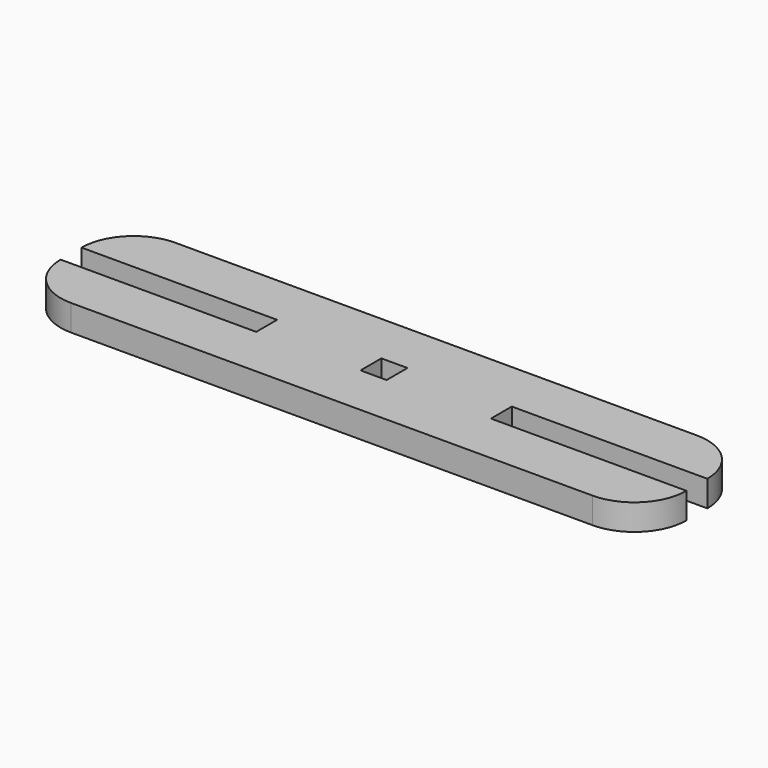
from build123d import *

# Parameters (mm, degrees)
F0_W     = 50.8
F0_H     = 50.8
F1_DEPTH = 50.8


with BuildPart() as f1:
    # F0 (on Top) → F1 (new body)
    with BuildSketch(Plane.XY):
        with BuildLine():
            ThreePointArc((609.6, 25.4), (579.842049, 97.242049), (508, 127))
            Line((508, 127), (-508, 127))
            ThreePointArc((-508, 127), (-579.842049, 97.242049), (-609.6, 25.4))
            Line((-609.6, 25.4), (-228.6, 25.4))
            Line((-228.6, 25.4), (-228.6, -25.4))
            Line((-228.6, -25.4), (-609.6, -25.4))
            ThreePointArc((-609.6, -25.4), (-579.842049, -97.242049), (-508, -127))
            Line((-508, -127), (508, -127))
            ThreePointArc((508, -127), (579.842049, -97.242049), (609.6, -25.4))
            Line((609.6, -25.4), (228.6, -25.4))
            Line((228.6, -25.4), (228.6, 25.4))
            Line((228.6, 25.4), (609.6, 25.4))
        make_face()
        Rectangle(F0_W, F0_H, mode=Mode.SUBTRACT)
    extrude(amount=F1_DEPTH)


solid = f1.part
